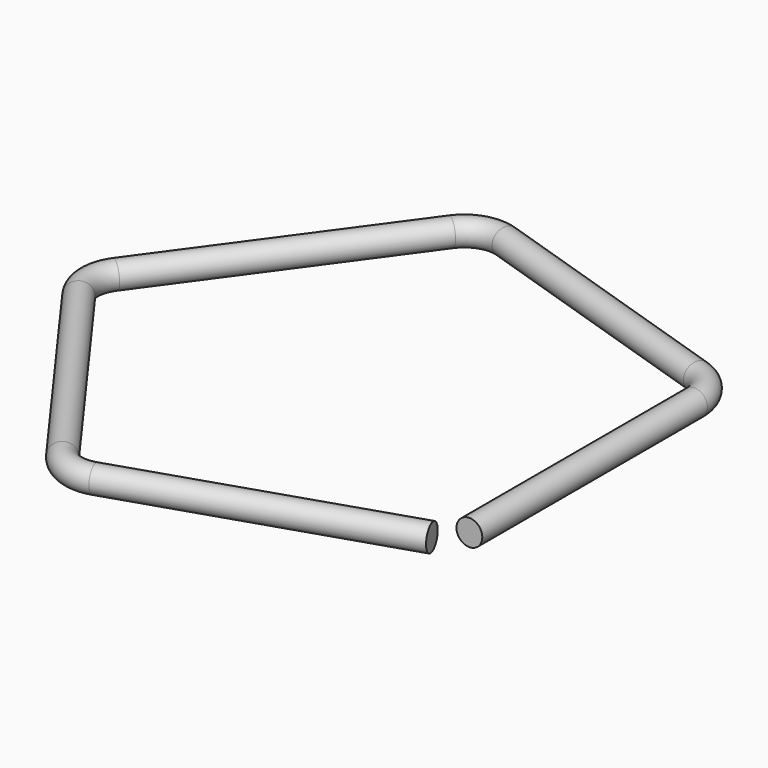
from build123d import *

# Parameters (mm, degrees)
F1_R = 4


with BuildPart() as f2:
    # F2: sweep along a path in F0
    with BuildLine(Plane.XY) as f2_path:
        Line((70, -45.0456367363), (70, 42.1394666243))
        ThreePointArc((70, 42.1394666243), (67.7082039325, 49.1928896518), (61.7082039325, 53.5521448199))
        Line((61.7082039325, 53.5521448199), (-18.44582472, 79.5957674615))
        ThreePointArc((-18.44582472, 79.5957674615), (-25.862232585, 79.5957674615), (-31.862232585, 75.2365122934))
        Line((-31.862232585, 75.2365122934), (-81.4001466275, 7.0534230275))
        ThreePointArc((-81.4001466275, 7.0534230275), (-83.691942695, 0), (-81.4001466275, -7.0534230275))
        Line((-81.4001466275, -7.0534230275), (-31.862232585, -75.2365122934))
        ThreePointArc((-31.862232585, -75.2365122934), (-25.862232585, -79.5957674615), (-18.44582472, -79.5957674615))
        Line((-18.44582472, -79.5957674615), (64.472135955, -52.6540888667))
    # F1 (on Front) → F2 (sweep)
    with BuildSketch(Plane.XZ):
        with Locations((70, 0)):
            Circle(F1_R)
    sweep(path=f2_path.line)


solid = f2.part
